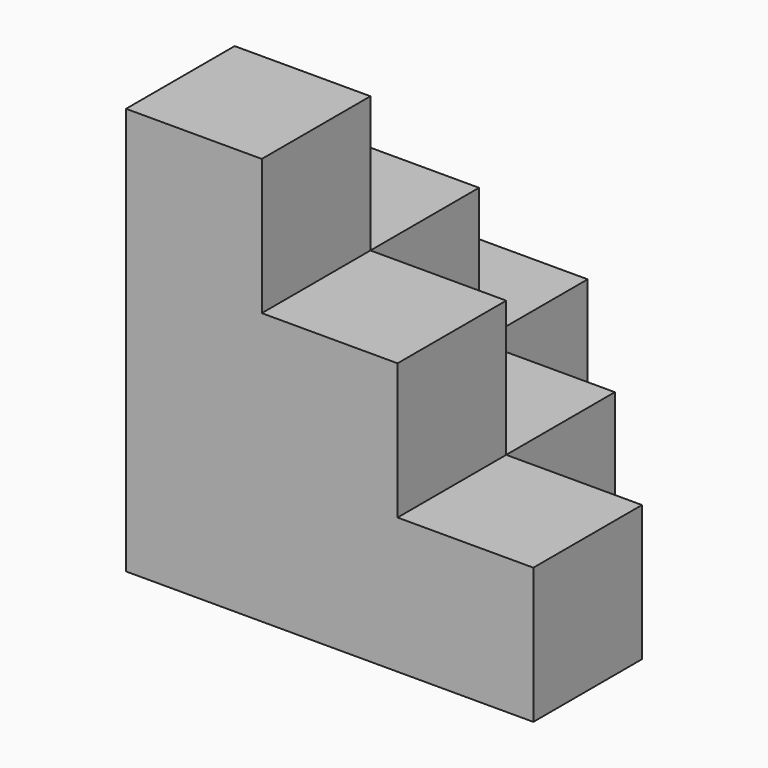
from build123d import *

# Parameters (mm, degrees)
BOX002_W     = 10
BOX002_H     = 10
BOX002_DEPTH = 10
BOX004_W     = 10
BOX004_H     = 10
BOX004_DEPTH = 10
BOX005_W     = 10
BOX005_H     = 10
BOX005_DEPTH = 10
BOX006_W     = 10
BOX006_H     = 10
BOX006_DEPTH = 10
BOX007_W     = 10
BOX007_H     = 10
BOX007_DEPTH = 10
BOX008_W     = 10
BOX008_H     = 10
BOX008_DEPTH = 10
BOX009_W     = 10
BOX009_H     = 10
BOX009_DEPTH = 10
BOX_W        = 10
BOX_H        = 10
BOX_DEPTH    = 10
BOX001_W     = 10
BOX001_H     = 10
BOX001_DEPTH = 10
BOX003_W     = 10
BOX003_H     = 10
BOX003_DEPTH = 10


with BuildPart() as box002:
    # Box002 → Box002 (new body)
    with BuildSketch(Plane(origin=(20, 0, 0), x_dir=(1, 0, 0), z_dir=(0, 0, 1))):
        with Locations((5, 5)):
            Rectangle(BOX002_W, BOX002_H)
    extrude(amount=BOX002_DEPTH)


with BuildPart() as cubo004:
    # Box004 → Box004 (new body)
    with BuildSketch(Plane(origin=(0, 20, 0), x_dir=(1, 0, 0), z_dir=(0, 0, 1))):
        with Locations((5, 5)):
            Rectangle(BOX004_W, BOX004_H)
    extrude(amount=BOX004_DEPTH)


with BuildPart() as cubo005:
    # Box005 → Box005 (new body)
    with BuildSketch(Plane(origin=(10, 10, 0), x_dir=(1, 0, 0), z_dir=(0, 0, 1))):
        with Locations((5, 5)):
            Rectangle(BOX005_W, BOX005_H)
    extrude(amount=BOX005_DEPTH)


with BuildPart() as cubo006:
    # Box006 → Box006 (new body)
    with BuildSketch(Plane.XY.offset(10)):
        with Locations((5, 5)):
            Rectangle(BOX006_W, BOX006_H)
    extrude(amount=BOX006_DEPTH)


with BuildPart() as cubo007:
    # Box007 → Box007 (new body)
    with BuildSketch(Plane.XY.offset(20)):
        with Locations((5, 5)):
            Rectangle(BOX007_W, BOX007_H)
    extrude(amount=BOX007_DEPTH)


with BuildPart() as cubo008:
    # Box008 → Box008 (new body)
    with BuildSketch(Plane(origin=(0, 10, 10), x_dir=(1, 0, 0), z_dir=(0, 0, 1))):
        with Locations((5, 5)):
            Rectangle(BOX008_W, BOX008_H)
    extrude(amount=BOX008_DEPTH)


with BuildPart() as cubo009:
    # Box009 → Box009 (new body)
    with BuildSketch(Plane(origin=(10, 0, 10), x_dir=(1, 0, 0), z_dir=(0, 0, 1))):
        with Locations((5, 5)):
            Rectangle(BOX009_W, BOX009_H)
    extrude(amount=BOX009_DEPTH)


with BuildPart() as box:
    # Box → Box (new body)
    with BuildSketch(Plane.XY):
        with Locations((5, 5)):
            Rectangle(BOX_W, BOX_H)
    extrude(amount=BOX_DEPTH)


with BuildPart() as box001:
    # Box001 → Box001 (new body)
    with BuildSketch(Plane(origin=(10, 0, 0), x_dir=(1, 0, 0), z_dir=(0, 0, 1))):
        with Locations((5, 5)):
            Rectangle(BOX001_W, BOX001_H)
    extrude(amount=BOX001_DEPTH)


with BuildPart() as fusion:
    # Box003 → Box003 (new body)
    with BuildSketch(Plane(origin=(0, 10, 0), x_dir=(1, 0, 0), z_dir=(0, 0, 1))):
        with Locations((5, 5)):
            Rectangle(BOX003_W, BOX003_H)
    extrude(amount=BOX003_DEPTH)

    # Fusion: union Box002, Cubo004, Cubo005, Cubo006, Cubo007, Cubo008, Cubo009, Box, Box001
    add(box002.part)
    add(cubo004.part)
    add(cubo005.part)
    add(cubo006.part)
    add(cubo007.part)
    add(cubo008.part)
    add(cubo009.part)
    add(box.part)
    add(box001.part)


solid = fusion.part
